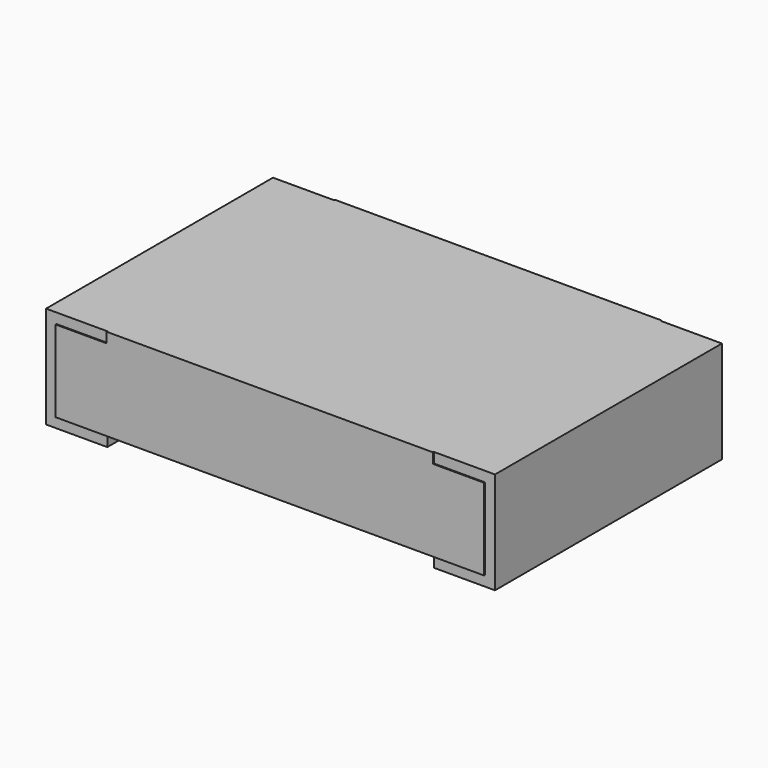
from build123d import *

# Parameters (mm, degrees)
PLATING_LEFT_W      = 0.3
PLATING_LEFT_H      = 1.39
PLATING_LEFT_DEPTH  = 0.5
PLATING_RIGHT_W     = 0.3
PLATING_RIGHT_H     = 1.39
PLATING_RIGHT_DEPTH = 0.5
MARKING_W           = 1.6
MARKING_H           = 1.4
MARKING_DEPTH       = 0.05
CHIP_W              = 2.1
CHIP_H              = 1.4
CHIP_DEPTH          = 0.4


with BuildPart() as plating_left:
    # plating_left → plating_left (new body)
    with BuildSketch(Plane(origin=(-1.1, -0.695, 0), x_dir=(1, 0, 0), z_dir=(0, 0, 1))):
        with Locations((0.15, 0.695)):
            Rectangle(PLATING_LEFT_W, PLATING_LEFT_H)
    extrude(amount=PLATING_LEFT_DEPTH)


with BuildPart() as plating_right:
    # plating_right → plating_right (new body)
    with BuildSketch(Plane(origin=(0.8, -0.695, 0), x_dir=(1, 0, 0), z_dir=(0, 0, 1))):
        with Locations((0.15, 0.695)):
            Rectangle(PLATING_RIGHT_W, PLATING_RIGHT_H)
    extrude(amount=PLATING_RIGHT_DEPTH)


with BuildPart() as marking:
    # marking → marking (new body)
    with BuildSketch(Plane(origin=(-0.8, -0.7, 0.45), x_dir=(1, 0, 0), z_dir=(0, 0, 1))):
        with Locations((0.8, 0.7)):
            Rectangle(MARKING_W, MARKING_H)
    extrude(amount=MARKING_DEPTH)


with BuildPart() as resistor:
    # chip → chip (new body)
    with BuildSketch(Plane(origin=(-1.05, -0.7, 0.05), x_dir=(1, 0, 0), z_dir=(0, 0, 1))):
        with Locations((1.05, 0.7)):
            Rectangle(CHIP_W, CHIP_H)
    extrude(amount=CHIP_DEPTH)

    # resistor: union plating_left, plating_right, marking
    add(plating_left.part)
    add(plating_right.part)
    add(marking.part)


solid = resistor.part
